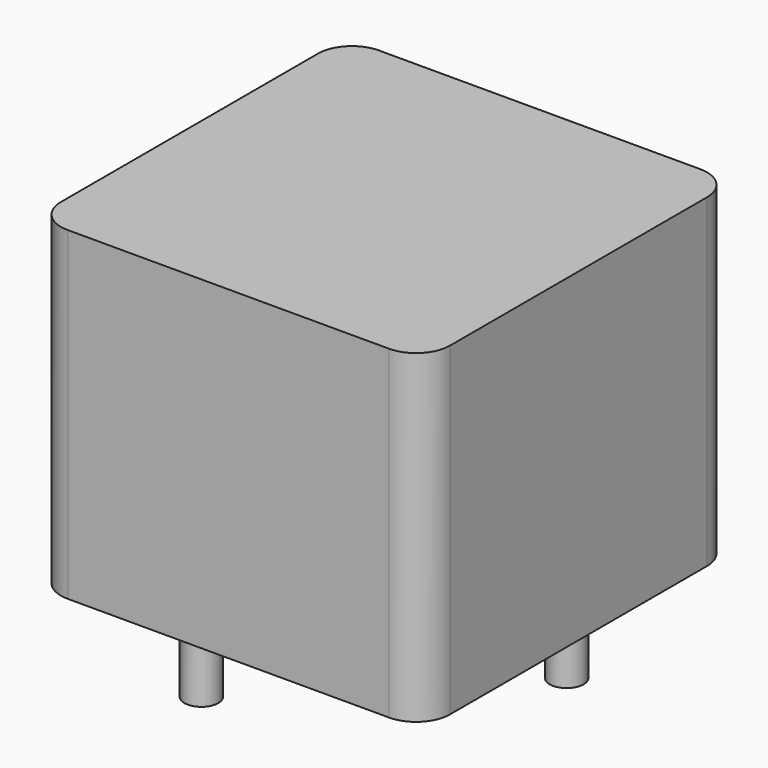
from build123d import *

# Parameters (mm, degrees)
SKETCH001_R  = 0.5
PAD001_DEPTH = 3.5
SKETCH_W     = 11.5
SKETCH_H     = 11.5
PAD_DEPTH    = 9.6
FILLET_R     = 1


with BuildPart() as pad001:
    # Sketch001 → Pad001 (new body)
    with BuildSketch(Plane.XY.offset(0.5)):
        Circle(SKETCH001_R)
        with Locations((6, 6)):
            Circle(SKETCH001_R)
    extrude(amount=-PAD001_DEPTH)


with BuildPart() as obj1:
    # Sketch → Pad (new body)
    with BuildSketch(Plane.XY.offset(0.1)):
        with Locations((3, 3)):
            Rectangle(SKETCH_W, SKETCH_H)
    extrude(amount=PAD_DEPTH)

    # Fillet
    fillet_edges = [obj1.edges().sort_by_distance(p)[0] for p in [
        (8.75, -2.75, 4.9),
        (8.75, 8.75, 4.9),
        (-2.75, -2.75, 4.9),
        (-2.75, 8.75, 4.9),
    ]]
    fillet(fillet_edges, radius=FILLET_R)

    # obj1: union Pad001
    add(pad001.part)


solid = obj1.part
